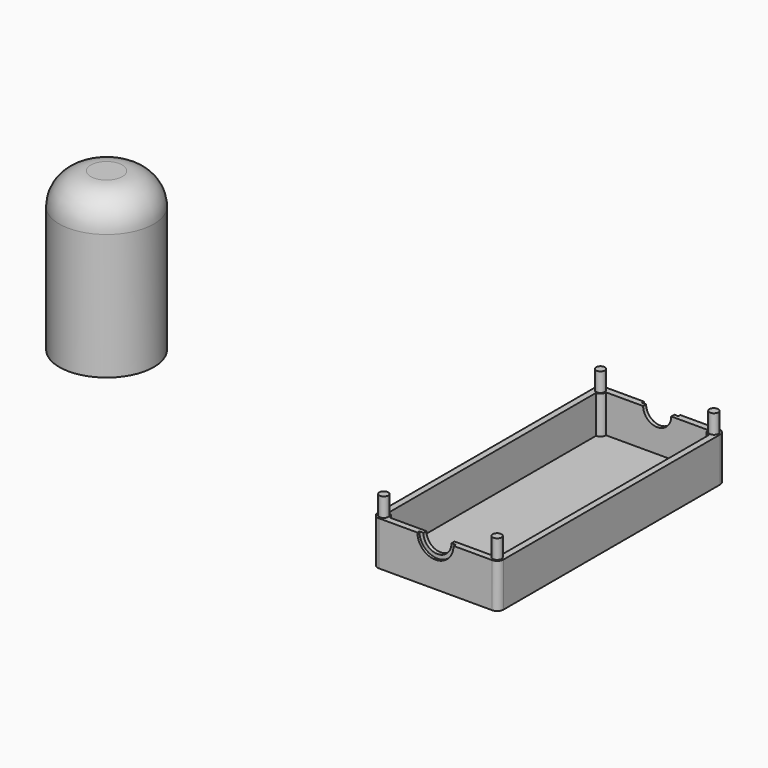
from build123d import *

# Parameters (mm, degrees)
F0_W      = 20
F0_H      = 45
F0_W_2    = 18
F0_H_2    = 43
F1_DEPTH  = 6
F2_W      = 20
F2_H      = 45
F3_DEPTH  = 1
F5_DEPTH  = 6
F6_R      = 0.7
F7_DEPTH  = 3
F8_R      = 1
F9_R      = 1
F10_R     = 1
F13_DEPTH = 45.001
F14_DEPTH = 0.4
F15_DEPTH = 0.4
F16_R     = 7.5
F17_DEPTH = 25
F18_R     = 5


with BuildPart() as f1:
    # F0 (on Top) → F1 (new body)
    with BuildSketch(Plane.XY):
        with Locations((10, 22.5)):
            Rectangle(F0_W, F0_H)
        with Locations((10, 22.5)):
            Rectangle(F0_W_2, F0_H_2, mode=Mode.SUBTRACT)
    extrude(amount=F1_DEPTH)

    # F2 (on Top) → F3 (join)
    with BuildSketch(Plane.XY):
        with Locations((10, 22.5)):
            Rectangle(F2_W, F2_H)
    extrude(amount=-F3_DEPTH)

    # F4 (on face) → F5 (join)
    with BuildSketch(Plane.XY.offset(6)):
        with BuildLine():
            Line((19, 44), (19, 43.1))
            ThreePointArc((19, 43.1), (19.6363961031, 43.3636038969), (19.9, 44))
            ThreePointArc((19.9, 44), (19, 44.9), (18.1, 44))
            Line((18.1, 44), (19, 44))
        make_face()
        with BuildLine():
            Line((19, 1), (19, 1.9))
            ThreePointArc((19, 1.9), (18.3636038969, 1.6363961031), (18.1, 1))
            Line((18.1, 1), (19, 1))
        make_face()
        with BuildLine():
            ThreePointArc((18.1, 1), (19, 0.1), (19.9, 1))
            ThreePointArc((19.9, 1), (19.6363961031, 1.6363961031), (19, 1.9))
            Line((19, 1.9), (19, 1))
            Line((19, 1), (18.1, 1))
        make_face()
        with BuildLine():
            Line((1, 1), (1.9, 1))
            ThreePointArc((1.9, 1), (1.6363961031, 1.6363961031), (1, 1.9))
            Line((1, 1.9), (1, 1))
        make_face()
        with BuildLine():
            ThreePointArc((1, 43.1), (1.6363961031, 43.3636038969), (1.9, 44))
            Line((1.9, 44), (1, 44))
            Line((1, 44), (1, 43.1))
        make_face()
        with BuildLine():
            ThreePointArc((18.1, 44), (18.3636038969, 43.3636038969), (19, 43.1))
            Line((19, 43.1), (19, 44))
            Line((19, 44), (18.1, 44))
        make_face()
    extrude(amount=-F5_DEPTH)

    # F6 (on face) → F7 (join)
    with BuildSketch(Plane.XY.offset(6)):
        with Locations((1, 1)):
            Circle(F6_R)
        with Locations((19, 1)):
            Circle(F6_R)
        with Locations((1, 44)):
            Circle(F6_R)
        with Locations((19, 44)):
            Circle(F6_R)
    extrude(amount=F7_DEPTH)

    # F8
    f8_edges = [f1.edges().sort_by_distance(p)[0] for p in [
        (20, 0, 2.5),
    ]]
    fillet(f8_edges, radius=F8_R)

    # F9
    f9_edges = [f1.edges().sort_by_distance(p)[0] for p in [
        (0, 0, 2.5),
    ]]
    fillet(f9_edges, radius=F9_R)

    # F10
    f10_edges = [f1.edges().sort_by_distance(p)[0] for p in [
        (0, 45, 2.5),
        (20, 45, 2.5),
    ]]
    fillet(f10_edges, radius=F10_R)

    # F11 (on face) → F13 (cut, through all)
    with BuildSketch(Plane.XZ):
        with BuildLine():
            ThreePointArc((7.7686794017, 6), (10, 3.7686794017), (12.2313205983, 6))
            Line((12.2313205983, 6), (7.7686794017, 6))
        make_face()
    extrude(amount=-F13_DEPTH, mode=Mode.SUBTRACT)

    # F11 (on face) → F14 (cut)
    with BuildSketch(Plane.XZ):
        with BuildLine():
            ThreePointArc((7.1292357253, 6), (10, 3.1292357253), (12.8707642747, 6))
            Line((12.8707642747, 6), (12.2313205983, 6))
            ThreePointArc((12.2313205983, 6), (10, 3.7686794017), (7.7686794017, 6))
            Line((7.7686794017, 6), (7.1292357253, 6))
        make_face()
    extrude(amount=-F14_DEPTH, mode=Mode.SUBTRACT)

    # F12 (on face) → F15 (cut)
    with BuildSketch(Plane(origin=(0, 45, 0), x_dir=(-1, 0, 0), z_dir=(0, 1, 0))):
        with BuildLine():
            Line((-7.1292357253, 6), (-7.7686794017, 6))
            ThreePointArc((-7.7686794017, 6), (-10, 3.7686794017), (-12.2313205983, 6))
            Line((-12.2313205983, 6), (-12.8707642747, 6))
            ThreePointArc((-12.8707642747, 6), (-10, 3.1292357253), (-7.1292357253, 6))
        make_face()
    extrude(amount=-F15_DEPTH, mode=Mode.SUBTRACT)


with BuildPart() as f17:
    # F16 (on Top) → F17 (new body)
    with BuildSketch(Plane.XY):
        with Locations((-60.8231723309, 23.2621971518)):
            Circle(F16_R)
    extrude(amount=F17_DEPTH)

    # F18
    f18_edges = [f17.edges().sort_by_distance(p)[0] for p in [
        (-68.323172, 23.262197, 25),
    ]]
    fillet(f18_edges, radius=F18_R)


solid = Compound([f1.part, f17.part])
